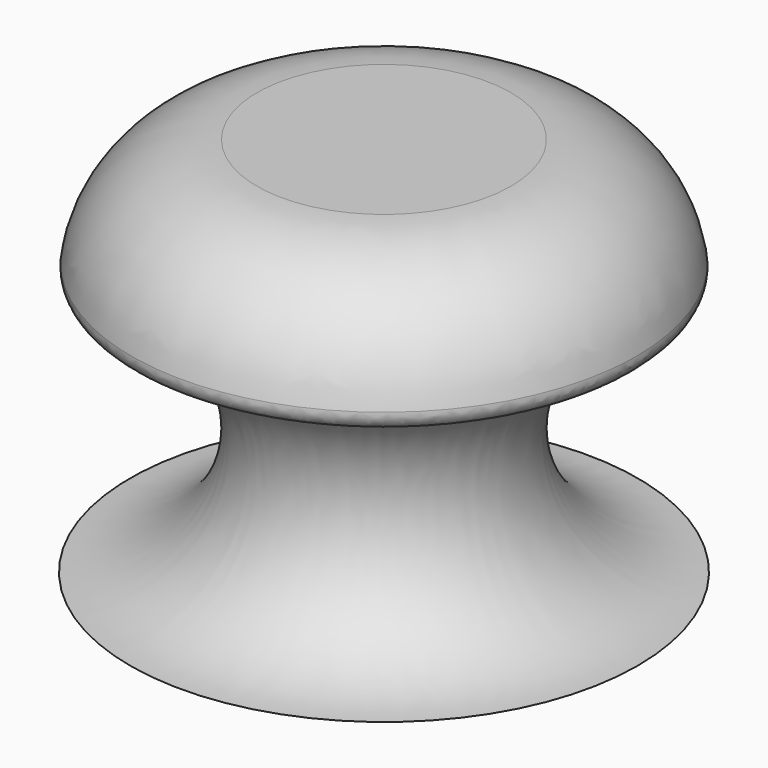
from build123d import *

# Parameters (mm, degrees)
F2_R = 1.27


with BuildPart() as f1:
    # F0 (on Front) → F1 (revolve)
    with BuildSketch(Plane.XZ):
        with BuildLine():
            Line((0, 28.575), (0, 0))
            Line((0, 0), (19.05, 0))
            ThreePointArc((19.05, 0), (9.525, 9.525), (19.05, 19.05))
            ThreePointArc((19.05, 19.05), (16.260192, 25.785192), (9.525, 28.575))
            Line((9.525, 28.575), (0, 28.575))
        make_face()
    revolve(axis=Axis((0, 0, 14.2875), (0, 0, 1)))

    # F2
    f2_edges = [f1.edges().sort_by_distance(p)[0] for p in [
        (-19.05, 0, 19.05),
    ]]
    fillet(f2_edges, radius=F2_R)


solid = f1.part
